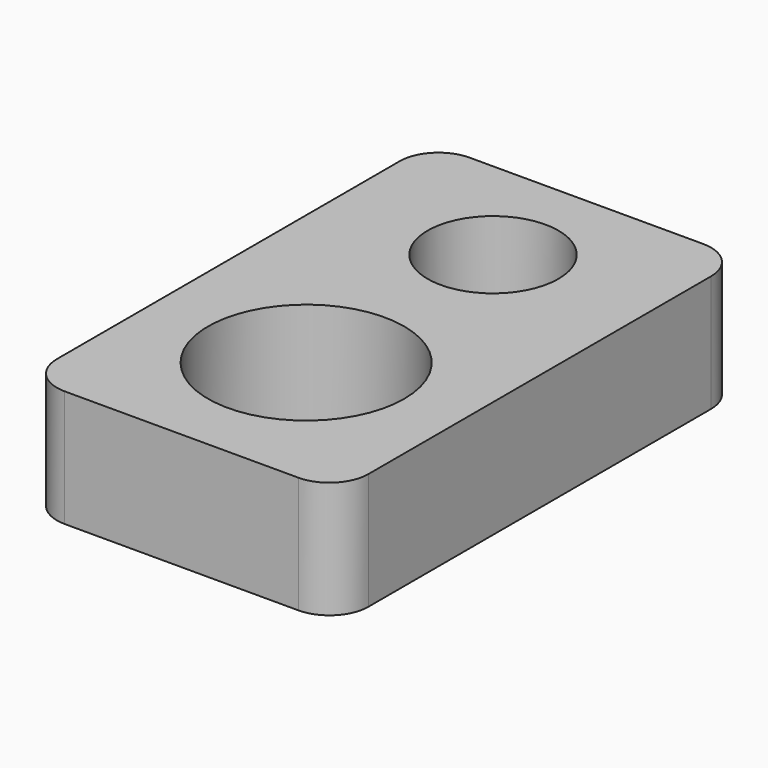
from build123d import *

# Parameters (mm, degrees)
F0_W     = 50.8
F0_H     = 82.55
F0_R     = 16
F0_R_2   = 10.668
F1_DEPTH = 19.05
F2_R     = 6.35


with BuildPart() as f1:
    # F0 (on Top) → F1 (new body)
    with BuildSketch(Plane.XY):
        with Locations((-43.62808, 40.296035)):
            Rectangle(F0_W, F0_H)
        with Locations((-43.62808, 24.421035)):
            Circle(F0_R, mode=Mode.SUBTRACT)
        with Locations((-43.62808, 62.521035)):
            Circle(F0_R_2, mode=Mode.SUBTRACT)
    extrude(amount=F1_DEPTH)

    # F2
    f2_edges = [f1.edges().sort_by_distance(p)[0] for p in [
        (-18.22808, 81.571035, 9.525),
        (-69.02808, 81.571035, 9.525),
        (-18.22808, -0.978965, 9.525),
        (-69.02808, -0.978965, 9.525),
    ]]
    fillet(f2_edges, radius=F2_R)


solid = f1.part
